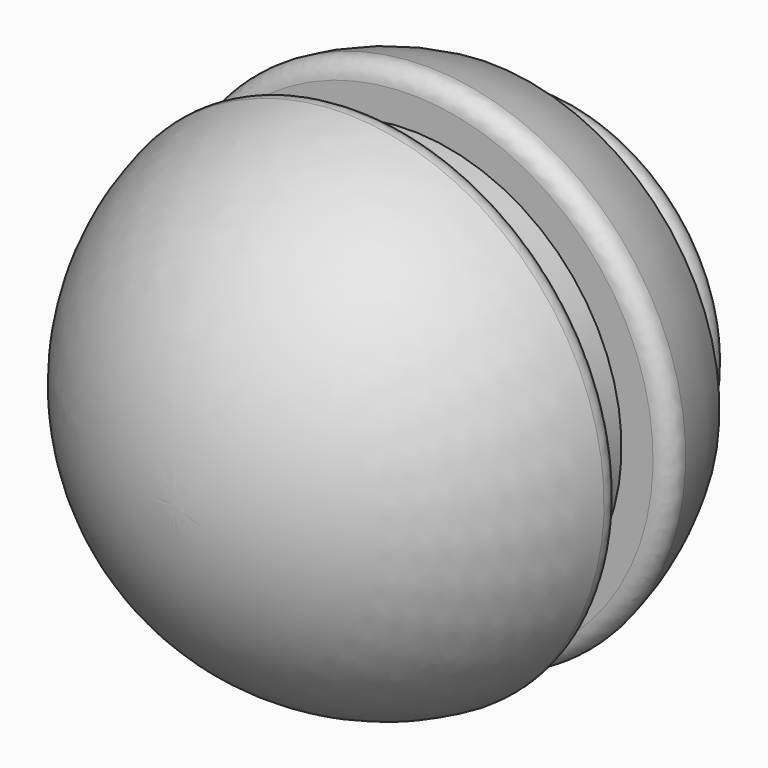
from build123d import *

# Parameters (mm, degrees)
F2_R = 2.177448


with BuildPart() as f1:
    # F0 (on Top) → F1 (revolve)
    with BuildSketch(Plane.XY):
        with BuildLine():
            ThreePointArc((-14.217468, 21.946643), (-17.152218, 26.500185), (-22.511365, 25.708324))
            ThreePointArc((-22.511365, 25.708324), (-23.535367, 24.774301), (-24.52065, 23.799522))
            ThreePointArc((-24.52065, 23.799522), (-23.846652, 17.799854), (-29.790262, 16.739767))
            ThreePointArc((-29.790262, 16.739767), (-32.492955, 10.577683), (-33.93576, 4.005458))
            Line((-33.93576, 4.005458), (-27.302839, 4.005458))
            Line((-27.302839, 4.005458), (-27.302839, -4.005458))
            Line((-27.302839, -4.005458), (-33.93576, -4.005458))
            ThreePointArc((-33.93576, -4.005458), (-22.702507, -25.539688), (0, -34.171326))
            Line((0, -34.171326), (0, -9.970693))
            Line((0, -9.970693), (-9.217468, -9.970693))
            ThreePointArc((-9.217468, -9.970693), (-12.753002, -8.506227), (-14.217468, -4.970693))
            Line((-14.217468, -4.970693), (-14.217468, 21.946643))
        make_face()
    revolve(axis=Axis((0, -22.071009, 0), (0, -1, 0)))

    # F2
    f2_edges = [f1.edges().sort_by_distance(p)[0] for p in [
        (33.93576, 4.005458, 0),
        (27.302839, -4.005458, 0),
        (24.52065, 23.799522, 0),
        (33.93576, -4.005458, 0),
    ]]
    fillet(f2_edges, radius=F2_R)


solid = f1.part
